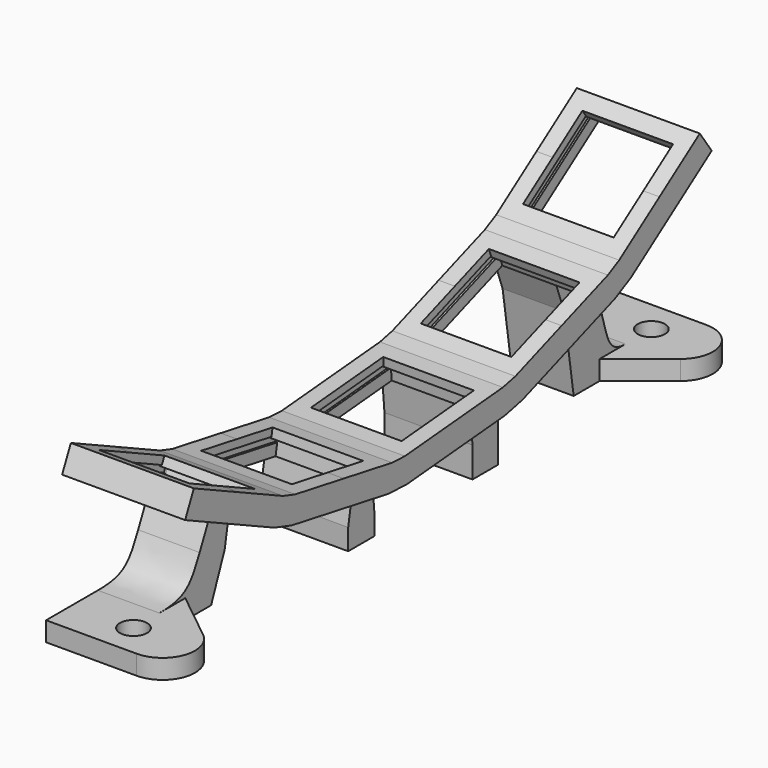
from build123d import *

# Parameters (mm, degrees)
PAD008_DEPTH      = 9.5
POCKET004_DEPTH   = 7
POCKET005_DEPTH   = 7.3
PAD009_DEPTH      = 4.1
PAD009_DEPTH_BACK = 9.5
PAD010_DEPTH      = 9.5
SKETCH019_R       = 2.1
PAD011_DEPTH      = 3


with BuildPart() as part:
    # Sketch012 → Pad008 (new body, symmetric)
    with BuildSketch(Plane.YZ):
        Polygon((-50.2140974459, 25.1635701276), (-41.6041734691, 21.1486966411), (-32.9942494922, 17.1338231546), (-30.6406576873, 16.391738509), (-21.2849840337, 14.7420808212), (-11.9293103801, 13.0924231333), (-9.4638496319, 12.9847787924), (0, 13.8127583485), (9.4638496319, 14.6407379046), (11.8731622478, 15.1748696522), (20.8002421453, 18.4240610138), (29.7273220427, 21.6732523754), (31.9162958532, 22.8127600157), (39.698240274, 28.261736161), (47.4801846947, 33.7107123064), (49.7744904401, 30.4341041292), (34.2106015986, 19.5361518385), (31.0954026161, 17.9144818923), (13.2412428211, 11.4160991691), (9.8124726029, 10.6559591122), (-9.1152266609, 9), (-12.6239030908, 9.1531921213), (-31.335250398, 12.4525074969), (-34.6847225392, 13.5085920064), (-51.9045704929, 21.5383389795), align=None)
    extrude(amount=PAD008_DEPTH, both=True)

    # Sketch013 → Pocket004 (cut, symmetric)
    with BuildSketch(Plane.YZ):
        Polygon((45.432304584, 32.2767712155), (39.698240274, 28.261736161), (33.9641759639, 24.2467011065), (34.7671886347, 23.0998922076), (33.7022888371, 22.3542413419), (35.1935840518, 20.2244435621), (41.9925460194, 24.9851279839), (48.791507987, 29.7458124056), (47.3002178304, 31.8756137271), (46.2353203941, 31.1299645148), align=None)
        Polygon((27.3780904908, 20.8182020171), (20.8002421453, 18.4240610138), (14.2223937998, 16.0299200105), (14.701229209, 14.7143529651), (13.4796275966, 14.2697263401), (14.3688739661, 11.826523341), (22.1683227186, 14.6652905307), (29.9677714711, 17.5040577203), (29.078530336, 19.9472626244), (27.8569308195, 19.5026367622), align=None)
        Polygon((-6.9733628866, 13.2026681492), (-6.8513426496, 11.8079957641), (-8.1463884643, 11.6946939366), (-7.9197930232, 9.1045868913), (0.348622971, 9.8279795561), (8.6170389652, 10.5513722209), (8.390436117, 13.1414786182), (7.0953826538, 13.0281761215), (6.9733628866, 14.4228485477), (0, 13.8127583485), align=None)
        Polygon((-21.2849840337, 14.7420808212), (-28.1786383048, 15.9576180648), (-28.4217503954, 14.5788880291), (-29.701997863, 14.8046301996), (-30.1534810944, 12.2441296837), (-21.9795767444, 10.8028498091), (-13.8056723944, 9.3615699345), (-13.3541906242, 11.922070708), (-14.6344528215, 12.1478154758), (-14.3913297626, 13.5265435775), align=None)
        Polygon((-41.6041734691, 21.1486966411), (-47.9483279783, 24.1070244733), (-48.5400033464, 22.838198142), (-49.7182011739, 23.3876008118), (-50.8170011484, 21.0311970654), (-43.294646516, 17.523465493), (-35.7722918836, 14.0157339205), (-34.6734914189, 16.3721374383), (-35.8516963311, 16.9215434118), (-35.2600189598, 18.1903688089), align=None)
    extrude(amount=POCKET004_DEPTH, both=True, mode=Mode.SUBTRACT)

    # Sketch014 → Pocket005 (cut, symmetric)
    with BuildSketch(Plane.YZ):
        Polygon((27.8569308195, 19.5026367622), (27.7885250582, 19.6905746558), (14.6328241506, 14.9022911145), (14.701229209, 14.7143529651), (13.4796275966, 14.2697263401), (13.7532418641, 13.5179715711), (29.3521429929, 19.1955072693), (29.078530336, 19.9472626244), align=None)
        Polygon((7.0779512585, 13.2274150395), (7.0953826538, 13.0281761215), (8.390436117, 13.1414786182), (8.4601600703, 12.3445228037), (-8.0766667901, 10.8977379227), (-8.1463884643, 11.6946939366), (-6.8513426496, 11.8079957641), (-6.8687741121, 12.0072346763), align=None)
        Polygon((34.6524725388, 23.2637220503), (46.1206038498, 31.2937940434), (46.2353203941, 31.1299645148), (47.3002178304, 31.8756137271), (47.7590763401, 31.2202902435), (34.1611489031, 21.6989189481), (33.7022888371, 22.3542413419), (34.7671886347, 23.0998922076), align=None)
        Polygon((-48.5400033464, 22.838198142), (-49.7182011739, 23.3876008118), (-50.0562934738, 22.6625535052), (-35.0115838696, 15.6470902021), (-34.6734914189, 16.3721374383), (-35.8516963311, 16.9215434118), (-35.7671709924, 17.1028041826), (-48.4554782937, 23.0194590466), align=None)
        Polygon((-28.3870200967, 14.7758494628), (-28.4217503954, 14.5788880291), (-29.701997863, 14.8046301996), (-29.8409157804, 14.0167838869), (-13.4931080919, 11.1342243163), (-13.3541906242, 11.922070708), (-14.6344528215, 12.1478154758), (-14.5997209559, 12.3447766332), align=None)
    extrude(amount=POCKET005_DEPTH, both=True, mode=Mode.SUBTRACT)

    # Sketch017 → Pad009 (join, two sides)
    with BuildSketch(Plane.YZ) as pad009_sk:
        Polygon((-13.6657921568, 3.2443456032), (-12.6239030908, 9.1531921213), (-11.9293103801, 13.0924231333), (-9.4638496319, 12.9847787924), (-9.1152266609, 9), (-8.5922922044, 3.0228318115), (-8.5922922044, 0), (-13.6657921568, 0), align=None)
        Polygon((15.2933636811, 0), (10.3354070594, 0), (10.3354070594, 4.6787909237), (9.8124726029, 10.6559591122), (9.4638496319, 14.6407379046), (11.8731622478, 15.1748696522), (13.2412428211, 11.4160991691), (15.2933636811, 5.7779434443), align=None)
    extrude(amount=PAD009_DEPTH)
    extrude(pad009_sk.sketch, amount=-PAD009_DEPTH_BACK)

    # Sketch018 → Pad010 (join)
    with BuildSketch(Plane.YZ):
        with BuildLine():
            Line((-37.2204321096, 8.0707452842), (-34.6847225392, 13.5085920064))
            Line((-34.6847225392, 13.5085920064), (-32.9942494922, 17.1338231546))
            Line((-32.9942494922, 17.1338231546), (-30.6406576873, 16.391738509))
            Line((-30.6406576873, 16.391738509), (-31.335250398, 12.4525074969))
            Line((-31.335250398, 12.4525074969), (-32.377139464, 6.5436609789))
            Line((-32.377139464, 6.5436609789), (-35, 0))
            Line((-35, 0), (-45, 0))
            Line((-45, 0), (-45, 3))
            add(Edge.make_bspline(
                [(-37.2204321096, 8.0707452842), (-39.0096732627, 4.233705249), (-40, 3), (-45, 3)],
                knots=[0, 0, 0, 0, 1, 1, 1, 1], degree=3))
        make_face()
        with BuildLine():
            Line((33.147523476, 12.2763261675), (31.0954026161, 17.9144818923))
            Line((31.0954026161, 17.9144818923), (29.7273220427, 21.6732523754))
            Line((29.7273220427, 21.6732523754), (31.9162958532, 22.8127600157))
            Line((31.9162958532, 22.8127600157), (34.2106015986, 19.5361518385))
            Line((34.2106015986, 19.5361518385), (37.6520602168, 14.6212395727))
            add(Edge.make_bspline(
                [(37.6520602168, 14.6212395727), (42.262119346, 8.0373928164), (40, 3), (45, 3)],
                knots=[0, 0, 0, 0, 1, 1, 1, 1], degree=3))
            Line((45, 3), (45, 0))
            Line((45, 0), (35, 0))
            Line((35, 0), (33.147523476, 12.2763261675))
        make_face()
    extrude(amount=-PAD010_DEPTH)

    # Sketch019 → Pad011 (join)
    with BuildSketch(Plane.XY):
        with BuildLine():
            Line((7.6224992299, 46.0948753465), (0, 40))
            Line((0, 40), (0, 45))
            Line((0, 45), (-9.5, 45))
            Line((-9.5, 45), (-9.5, 55))
            Line((-9.5, 55), (4.5, 55))
            ThreePointArc((7.6224992299, 46.0948753465), (9.218348401, 51.6544450327), (4.5, 55))
        make_face()
        with Locations((0, 50)):
            Circle(SKETCH019_R, mode=Mode.SUBTRACT)
        with BuildLine():
            Line((0, -45), (0, -40))
            Line((0, -40), (7.6224992299, -46.0948753465))
            ThreePointArc((4.5, -55), (9.218348401, -51.6544450327), (7.6224992299, -46.0948753465))
            Line((4.5, -55), (-9.5, -55))
            Line((-9.5, -55), (-9.5, -45))
            Line((-9.5, -45), (0, -45))
        make_face()
        with Locations((0, -50)):
            Circle(SKETCH019_R, mode=Mode.SUBTRACT)
    extrude(amount=PAD011_DEPTH)


with BuildPart() as part_1:
    # Body002 placement: moved
    add(part.part.moved(Location((50, 0, 5))))


solid = part_1.part
